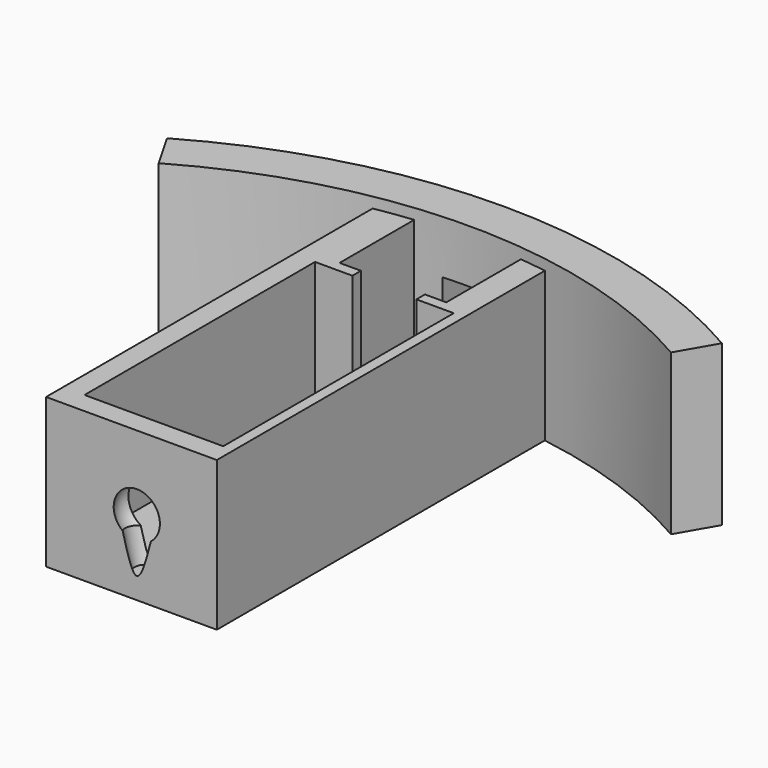
from build123d import *

# Parameters (mm, degrees)
BOX004_W                    = 5
BOX004_H                    = 5
BOX004_DEPTH                = 5
CYLINDER001_W               = 48
CYLINDER001_H               = 15
CYLINDER001_ANGLE           = 60
CYLINDER001_PLACEMENT_ANGLE = 60
CYLINDER_W                  = 52
CYLINDER_H                  = 15
CYLINDER_ANGLE              = 60
CYLINDER_PLACEMENT_ANGLE    = 60
BOX003_W                    = 6
BOX003_H                    = 4
BOX003_DEPTH                = 15
BOX002_W                    = 10
BOX002_H                    = 10
BOX002_DEPTH                = 15
BOX001_W                    = 13
BOX001_H                    = 27
BOX001_DEPTH                = 12
BOX_W                       = 16
BOX_H                       = 40
BOX_DEPTH                   = 14


with BuildPart() as pin_opening:
    # Box004 → Box004 (new body)
    with BuildSketch(Plane(origin=(6, 38.5, 5), x_dir=(1, 0, 0), z_dir=(0, 0, 1))):
        with Locations((2.5, 2.5)):
            Rectangle(BOX004_W, BOX004_H)
    extrude(amount=BOX004_DEPTH)


with BuildPart() as bottle_wall001:
    # Cylinder001 → Cylinder001 (revolve)
    with BuildSketch(Plane.XZ):
        with Locations((24, 7.5)):
            Rectangle(CYLINDER001_W, CYLINDER001_H)
    revolve(axis=Axis((0, 0, 0), (0, 0, 1)), revolution_arc=CYLINDER001_ANGLE)


with BuildPart() as bottle_wall001_1:
    # Cylinder001 placement: moved
    add(bottle_wall001.part.moved(Location((8.5, -7, 0))).rotate(Axis((8.5, -7, 0), (0, 0, 1)), CYLINDER001_PLACEMENT_ANGLE))


with BuildPart() as cut005:
    # Cylinder → Cylinder (revolve)
    with BuildSketch(Plane.XZ):
        with Locations((26, 7.5)):
            Rectangle(CYLINDER_W, CYLINDER_H)
    revolve(axis=Axis((0, 0, 0), (0, 0, 1)), revolution_arc=CYLINDER_ANGLE)


with BuildPart() as cut005_1:
    # Cylinder placement: moved
    add(cut005.part.moved(Location((8.5, -7, 0))).rotate(Axis((8.5, -7, 0), (0, 0, 1)), CYLINDER_PLACEMENT_ANGLE))

    # Cut005: cut bottle_wall001
    add(bottle_wall001_1.part, mode=Mode.SUBTRACT)


with BuildPart() as cut005_2:
    # Cut005 placement: moved
    add(cut005_1.part.moved(Location((0, -2, 0))))


with BuildPart() as cone:
    # Cone → Cone (revolve)
    with BuildSketch(Plane(origin=(8.5, 1, 2), x_dir=(1, 0, 0), z_dir=(0, -1, 0))):
        Polygon((0, 0), (1, 0), (2, 5), (0, 5), align=None)
    revolve(axis=Axis((8.5, 1, 2), (0, 0, 1)))


with BuildPart() as pinhole:
    # Sphere → Sphere (revolve)
    with BuildSketch(Plane(origin=(8.5, 1.25, 7), x_dir=(1, 0, 0), z_dir=(0, -1, 0))):
        with BuildLine():
            ThreePointArc((0, -2.5), (2.5, 0), (0, 2.5))
            Line((0, 2.5), (0, -2.5))
        make_face()
    revolve(axis=Axis((8.5, 1.25, 7), (0, 0, 1)))


with BuildPart() as neck:
    # Box003 → Box003 (new body)
    with BuildSketch(Plane(origin=(5.5, 28, 4), x_dir=(1, 0, 0), z_dir=(0, 0, 1))):
        with Locations((3, 2)):
            Rectangle(BOX003_W, BOX003_H)
    extrude(amount=BOX003_DEPTH)


with BuildPart() as pullbay:
    # Box002 → Box002 (new body)
    with BuildSketch(Plane(origin=(3.5, 30, 2), x_dir=(1, 0, 0), z_dir=(0, 0, 1))):
        with Locations((5, 5)):
            Rectangle(BOX002_W, BOX002_H)
    extrude(amount=BOX002_DEPTH)


with BuildPart() as solenoidbay:
    # Box001 → Box001 (new body)
    with BuildSketch(Plane(origin=(2, 2, 2), x_dir=(1, 0, 0), z_dir=(0, 0, 1))):
        with Locations((6.5, 13.5)):
            Rectangle(BOX001_W, BOX001_H)
    extrude(amount=BOX001_DEPTH)


with BuildPart() as cut006:
    # Box → Box (new body)
    with BuildSketch(Plane.XY):
        with Locations((8, 20)):
            Rectangle(BOX_W, BOX_H)
    extrude(amount=BOX_DEPTH)

    # Cut: cut solenoidBay
    add(solenoidbay.part, mode=Mode.SUBTRACT)

    # Cut001: cut pullBay
    add(pullbay.part, mode=Mode.SUBTRACT)

    # Cut002: cut neck
    add(neck.part, mode=Mode.SUBTRACT)

    # Cut003: cut pinhole
    add(pinhole.part, mode=Mode.SUBTRACT)

    # Cut004: cut Cone
    add(cone.part, mode=Mode.SUBTRACT)

    # Fusion: union Cut005
    add(cut005_2.part)

    # Cut006: cut pin_opening
    add(pin_opening.part, mode=Mode.SUBTRACT)


solid = cut006.part
